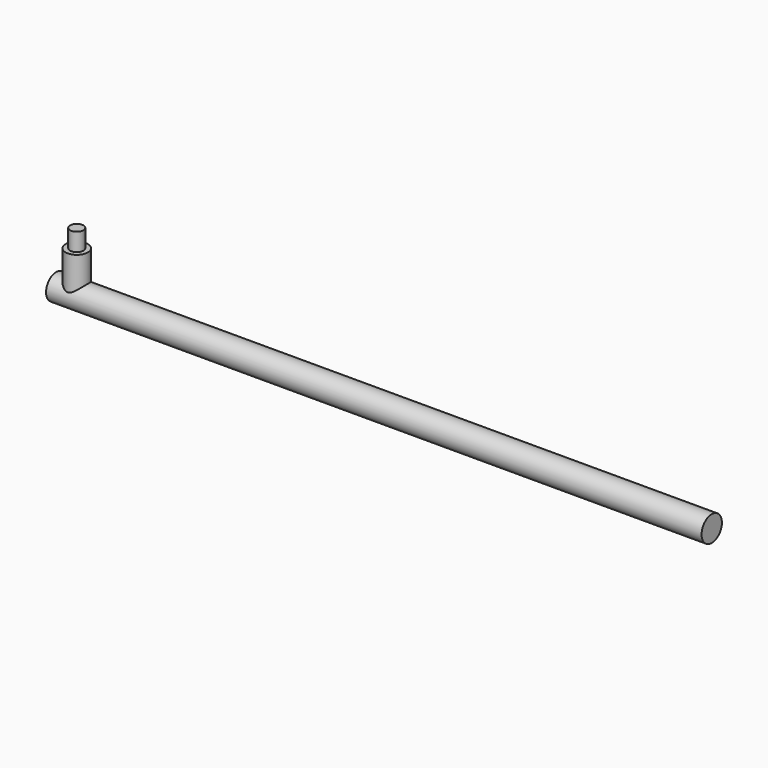
from build123d import *

# Parameters (mm, degrees)
F0_R     = 27.085871
F1_DEPTH = 1397
F2_R     = 23.906419
F3_DEPTH = 85.852
F4_R     = 14.195516
F5_DEPTH = 38.354


with BuildPart() as f1:
    # F0 (on Right) → F1 (new body)
    with BuildSketch(Plane.YZ):
        Circle(F0_R)
    extrude(amount=F1_DEPTH)

    # F2 (on Top) → F3 (join)
    with BuildSketch(Plane.XY):
        with Locations((43.752357, 0)):
            Circle(F2_R)
    extrude(amount=F3_DEPTH)

    # F4 (on face) → F5 (join)
    with BuildSketch(Plane.XY.offset(85.852)):
        with Locations((43.752357, 0)):
            Circle(F4_R)
    extrude(amount=F5_DEPTH)


solid = f1.part
